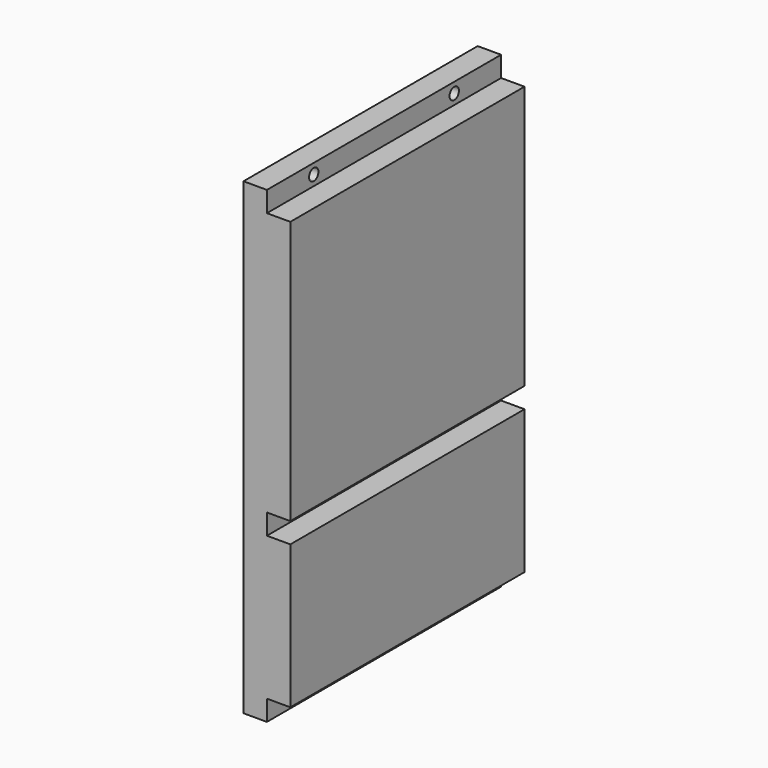
from build123d import *

# Parameters (mm, degrees)
F0_W     = 50
F0_H     = 80
F1_DEPTH = 4
F2_W     = 4
F2_H     = 3.5
F3_DEPTH = 50.001
F4_R     = 1
F5_DEPTH = 4
F6_R     = 1
F7_DEPTH = 4
F8_R     = 1
F9_DEPTH = 4


with BuildPart() as f1:
    # F0 (on Right) → F1 (new body, symmetric)
    with BuildSketch(Plane.YZ):
        Rectangle(F0_W, F0_H)
    extrude(amount=F1_DEPTH, both=True)

    # F2 (on face) → F3 (cut, through all)
    with BuildSketch(Plane.XZ.offset(25)):
        with Locations((2, 38.25)):
            Rectangle(F2_W, F2_H)
        with Locations((2, -10.25)):
            Rectangle(F2_W, F2_H)
        with Locations((2, -38.25)):
            Rectangle(F2_W, F2_H)
    extrude(amount=-F3_DEPTH, mode=Mode.SUBTRACT)

    # F4 (on face) → F5 (cut, through all)
    with BuildSketch(Plane.YZ):
        with Locations((-15, 38.25)):
            Circle(F4_R)
        with Locations((15, 38.25)):
            Circle(F4_R)
    extrude(amount=-F5_DEPTH, mode=Mode.SUBTRACT)

    # F6 (on face) → F7 (cut, through all)
    with BuildSketch(Plane.YZ):
        with Locations((-15, -10.25)):
            Circle(F6_R)
        with Locations((15, -10.25)):
            Circle(F6_R)
    extrude(amount=-F7_DEPTH, mode=Mode.SUBTRACT)

    # F8 (on face) → F9 (cut, through all)
    with BuildSketch(Plane.YZ):
        with Locations((-15, -38.25)):
            Circle(F8_R)
        with Locations((15, -38.25)):
            Circle(F8_R)
    extrude(amount=-F9_DEPTH, mode=Mode.SUBTRACT)


solid = f1.part
